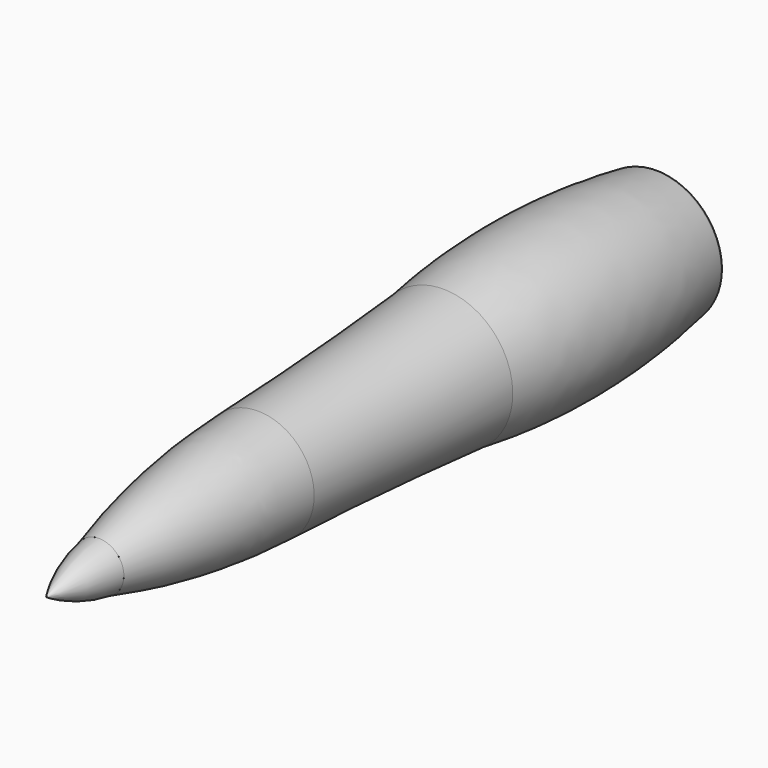
from build123d import *


with BuildPart() as f2:
    # F1 (on Right) → F2 (revolve)
    with BuildSketch(Plane.YZ):
        with BuildLine():
            Line((-80, -41.6), (-80, -42))
            ThreePointArc((-80, -42), (0.083927, -47.714149), (80, -40))
            Line((80, -40), (80, -39.6))
            Line((80, -39.6), (81, -39.6))
            Line((81, -39.6), (81, -38.8))
            Line((81, -38.8), (79.2, -38.8))
            Line((79.2, -38.8), (79.2, -39.6))
            ThreePointArc((79.2, -39.6), (0.079312, -46.660161), (-79.193572, -41.586797))
            Line((-79.193572, -41.586797), (-79.193572, -40.786797))
            Line((-79.193572, -40.786797), (-80.993572, -40.786797))
            Line((-80.993572, -40.786797), (-80.993572, -41.486797))
            Line((-80.993572, -41.486797), (-80, -41.6))
        make_face()
    revolve(axis=Axis((0, 156.715419, 0), (0, 1, 0)))


with BuildPart() as f4:
    # F3 (on Right) → F4 (revolve)
    with BuildSketch(Plane.YZ):
        with BuildLine():
            ThreePointArc((-220, -34), (-149.953251, -37.181889), (-80, -42))
            Line((-80, -42), (-80, -41.6))
            Line((-80, -41.6), (-80.993572, -41.486797))
            ThreePointArc((-80.993572, -41.486797), (-150.041882, -36.586619), (-219.199391, -33.6))
            Line((-219.199391, -33.6), (-219.199391, -32.765101))
            Line((-219.199391, -32.765101), (-220.999391, -32.765101))
            Line((-220.999391, -32.765101), (-220.999391, -33.565101))
            Line((-220.999391, -33.565101), (-220, -33.6))
            Line((-220, -33.6), (-220, -34))
        make_face()
    revolve(axis=Axis((0, 156.715419, 0), (0, 1, 0)))


with BuildPart() as f6:
    # F5 (on Right) → F6 (revolve)
    with BuildSketch(Plane.YZ):
        with BuildLine():
            Line((-340, -14.6), (-340, -15))
            ThreePointArc((-340, -15), (-280.59339, -28.247728), (-220, -34))
            Line((-220, -34), (-220, -33.6))
            Line((-220, -33.6), (-221, -33.565079))
            ThreePointArc((-221, -33.565079), (-280.742943, -27.587965), (-339.212154, -13.938919))
            Line((-339.212154, -13.938919), (-340.984808, -13.626352))
            Line((-340.984808, -13.626352), (-340.984808, -14.426352))
            Line((-340.984808, -14.426352), (-340, -14.6))
        make_face()
    revolve(axis=Axis((0, 156.715419, 0), (0, 1, 0)))


with BuildPart() as f8:
    # F7 (on Right) → F8 (revolve)
    with BuildSketch(Plane.YZ):
        with BuildLine():
            Line((-340, 14.6), (-340, 15))
            ThreePointArc((-340, 15), (-360.810351, 9.660937), (-380, 0))
            Line((-380, 0), (-379.4, 0))
            ThreePointArc((-379.4, 0), (-360.871065, 9.020347), (-340.984808, 14.426352))
            Line((-340.984808, 14.426352), (-340, 14.6))
        make_face()
    revolve(axis=Axis((0, 156.715419, 0), (0, 1, 0)))


solid = Compound([f2.part, f4.part, f6.part, f8.part])
